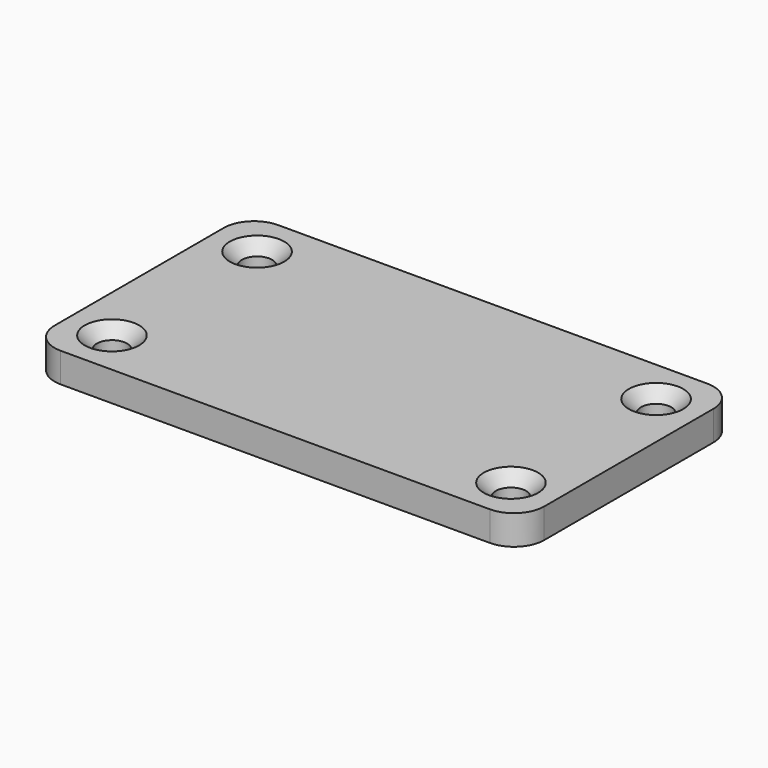
from build123d import *

# Parameters (mm, degrees)
F0_W     = 81
F0_H     = 15
F0_R     = 2.5
F0_H_2   = 30
F1_DEPTH = 4.9
F2_R     = 5
F3_R     = 5
F4_SIZE  = 2


with BuildPart() as f1:
    # F0 (on Top) → F1 (new body)
    with BuildSketch(Plane.XY):
        with Locations((1.9929800031, 0)):
            Rectangle(F0_W, F0_H)
        with Locations((-31.0070199969, 0)):
            Circle(F0_R, mode=Mode.SUBTRACT)
        with Locations((34.9929800031, 0)):
            Circle(F0_R, mode=Mode.SUBTRACT)
        with Locations((1.9929800031, -22.5)):
            Rectangle(F0_W, F0_H_2)
        with Locations((-31.0070199969, -30)):
            Circle(F0_R, mode=Mode.SUBTRACT)
        with Locations((34.9929800031, -30)):
            Circle(F0_R, mode=Mode.SUBTRACT)
    extrude(amount=F1_DEPTH)

    # F2
    f2_edges = [f1.edges().sort_by_distance(p)[0] for p in [
        (42.49298, 7.5, 2.45),
        (-38.50702, 7.5, 2.45),
    ]]
    fillet(f2_edges, radius=F2_R)

    # F3
    f3_edges = [f1.edges().sort_by_distance(p)[0] for p in [
        (42.49298, -37.5, 2.45),
        (-38.50702, -37.5, 2.45),
    ]]
    fillet(f3_edges, radius=F3_R)

    # F4
    f4_edges = [f1.edges().sort_by_distance(p)[0] for p in [
        (32.49298, 0, 4.9),
        (32.49298, -30, 4.9),
        (-33.50702, 0, 4.9),
        (-33.50702, -30, 4.9),
    ]]
    chamfer(f4_edges, length=F4_SIZE)


solid = f1.part
